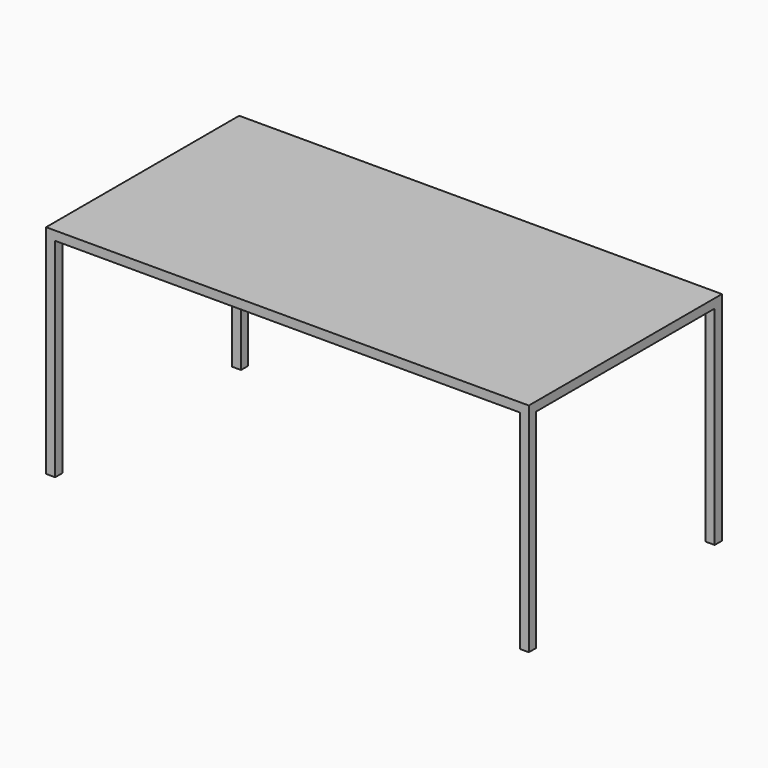
from build123d import *

# Parameters (mm, degrees)
F0_W     = 1600
F0_H     = 800
F1_DEPTH = 30
F2_W     = 30
F2_H     = 30
F3_DEPTH = 690


with BuildPart() as f1:
    # F0 (on Top) → F1 (new body)
    with BuildSketch(Plane.XY):
        with Locations((800, 400)):
            Rectangle(F0_W, F0_H)
    extrude(amount=F1_DEPTH)

    # F2 (on Top) → F3 (join)
    with BuildSketch(Plane.XY):
        with Locations((15, 15)):
            Rectangle(F2_W, F2_H)
        with Locations((15, 785)):
            Rectangle(F2_W, F2_H)
        with Locations((1585, 15)):
            Rectangle(F2_W, F2_H)
        with Locations((1585, 785)):
            Rectangle(F2_W, F2_H)
    extrude(amount=-F3_DEPTH)


solid = f1.part
